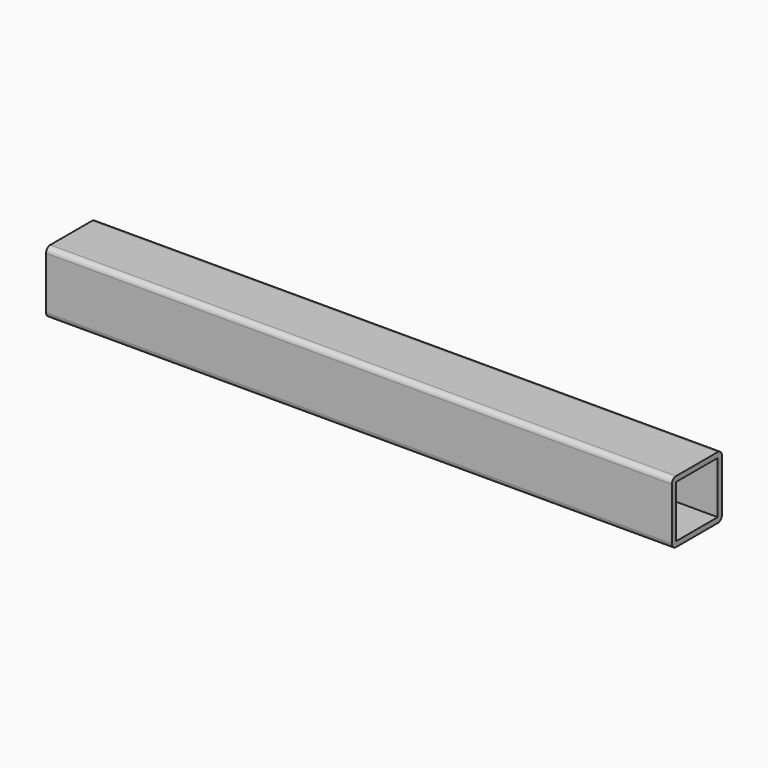
from build123d import *

# Parameters (mm, degrees)
F0_W     = 38.1
F0_H     = 38.1
F1_DEPTH = 381
F2_T     = -3.175
F3_R     = 3.175


with BuildPart() as f1:
    # F0 (on Right) → F1 (new body)
    with BuildSketch(Plane.YZ):
        Rectangle(F0_W, F0_H)
    extrude(amount=F1_DEPTH)

    # F2
    f2_openings = [f1.faces().sort_by_distance(p)[0] for p in [
        (381, 0, 0),
        (0, 0, 0),
    ]]
    offset(amount=F2_T, openings=f2_openings)

    # F3
    f3_edges = [f1.edges().sort_by_distance(p)[0] for p in [
        (190.5, -19.05, 19.05),
        (190.5, 19.05, 19.05),
        (190.5, -19.05, -19.05),
        (190.5, 19.05, -19.05),
    ]]
    fillet(f3_edges, radius=F3_R)


solid = f1.part
